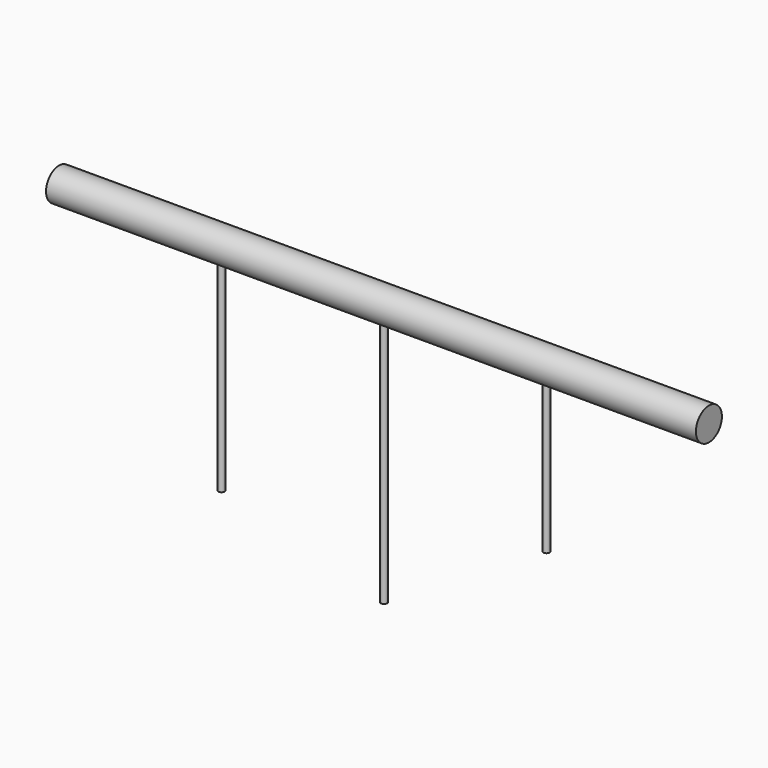
from build123d import *

# Parameters (mm, degrees)
F0_R     = 25
F1_DEPTH = 1000
F2_R     = 5
F3_DEPTH = 50
F4_R     = 5
F5_DEPTH = 200
F6_R     = 5
F7_DEPTH = 350
F8_R     = 5
F9_DEPTH = 280


with BuildPart() as f1:
    # F0 (on Right) → F1 (new body)
    with BuildSketch(Plane.YZ):
        with Locations((0, 53.862866)):
            Circle(F0_R)
    extrude(amount=F1_DEPTH)

    # F2 (on Top) → F3 (join)
    with BuildSketch(Plane.XY):
        with Locations((500, 0)):
            Circle(F2_R)
        with Locations((250, 0)):
            Circle(F2_R)
        with Locations((750, 0)):
            Circle(F2_R)
    extrude(amount=F3_DEPTH)

    # F4 (on face) → F5 (join)
    with BuildSketch(Plane(origin=(0, 0, 0), x_dir=(1, 0, 0), z_dir=(0, 0, -1))):
        with Locations((750, 0)):
            Circle(F4_R)
    extrude(amount=F5_DEPTH)

    # F6 (on face) → F7 (join)
    with BuildSketch(Plane(origin=(0, 0, 0), x_dir=(1, 0, 0), z_dir=(0, 0, -1))):
        with Locations((500, 0)):
            Circle(F6_R)
    extrude(amount=F7_DEPTH)

    # F8 (on face) → F9 (join)
    with BuildSketch(Plane(origin=(0, 0, 0), x_dir=(1, 0, 0), z_dir=(0, 0, -1))):
        with Locations((250, 0)):
            Circle(F8_R)
    extrude(amount=F9_DEPTH)


solid = f1.part
